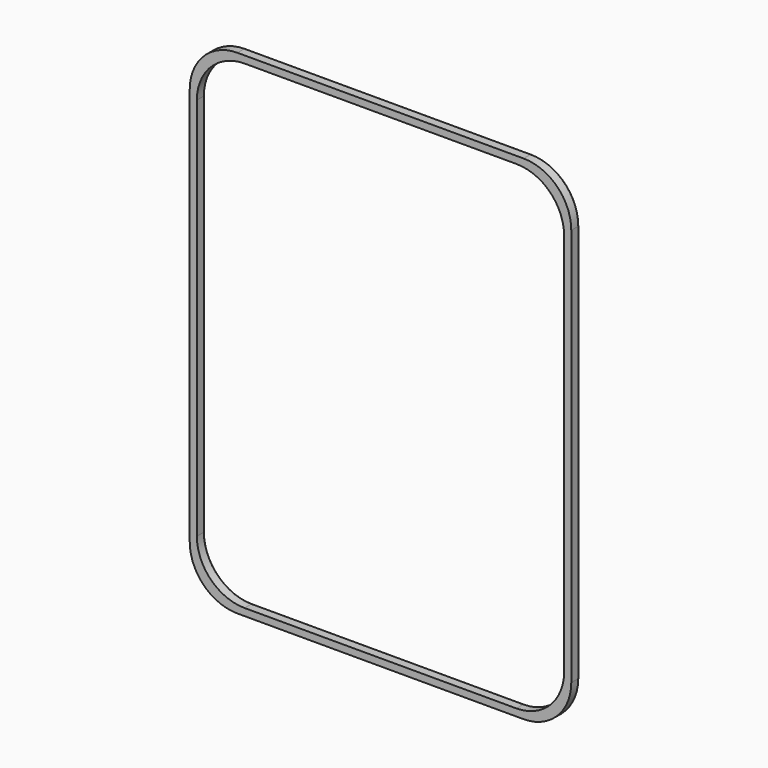
from build123d import *

# Parameters (mm, degrees)
BOX027_W     = 77
BOX027_H     = 2
BOX027_DEPTH = 100.5
FILLET031_R  = 10
BOX026_W     = 80
BOX026_H     = 2
BOX026_DEPTH = 103.5
FILLET030_R  = 10
FILLET032_R  = 0.25


with BuildPart() as obj1:
    # Box027 → Box027 (new body)
    with BuildSketch(Plane(origin=(0.5, -26, -13.25), x_dir=(1, 0, 0), z_dir=(0, 0, 1))):
        with Locations((38.5, 1)):
            Rectangle(BOX027_W, BOX027_H)
    extrude(amount=BOX027_DEPTH)

    # Fillet031
    fillet031_edges = [obj1.edges().sort_by_distance(p)[0] for p in [
        (0.5, -25, 87.25),
        (0.5, -25, -13.25),
        (77.5, -25, 87.25),
        (77.5, -25, -13.25),
    ]]
    fillet(fillet031_edges, radius=FILLET031_R)


with BuildPart() as obj1_1:
    # Fillet031 placement: moved
    add(obj1.part.moved(Location((0, 0.5, 0))))


with BuildPart() as ridge:
    # Box026 → Box026 (new body)
    with BuildSketch(Plane(origin=(-1, -26, -14.75), x_dir=(1, 0, 0), z_dir=(0, 0, 1))):
        with Locations((40, 1)):
            Rectangle(BOX026_W, BOX026_H)
    extrude(amount=BOX026_DEPTH)

    # Fillet030
    fillet030_edges = [ridge.edges().sort_by_distance(p)[0] for p in [
        (-1, -25, 88.75),
        (-1, -25, -14.75),
        (79, -25, 88.75),
        (79, -25, -14.75),
    ]]
    fillet(fillet030_edges, radius=FILLET030_R)


with BuildPart() as ridge_1:
    # Fillet030 placement: moved
    add(ridge.part.moved(Location((0, 0.5, 0))))

    # Cut008: cut obj1
    add(obj1_1.part, mode=Mode.SUBTRACT)

    # Fillet032
    fillet032_edges = [ridge_1.edges().sort_by_distance(p)[0] for p in [
        (-1, -23.5, 37),
        (1.928932, -23.5, -11.821068),
        (39, -23.5, -14.75),
        (76.071068, -23.5, -11.821068),
        (79, -23.5, 37),
        (1.928932, -23.5, 85.821068),
        (76.071068, -23.5, 85.821068),
        (39, -23.5, 88.75),
        (0.5, -23.5, 37),
        (3.428932, -23.5, 84.321068),
        (39, -23.5, 87.25),
        (74.571068, -23.5, 84.321068),
        (77.5, -23.5, 37),
        (74.571068, -23.5, -10.321068),
        (39, -23.5, -13.25),
        (3.428932, -23.5, -10.321068),
    ]]
    fillet(fillet032_edges, radius=FILLET032_R)


solid = ridge_1.part
